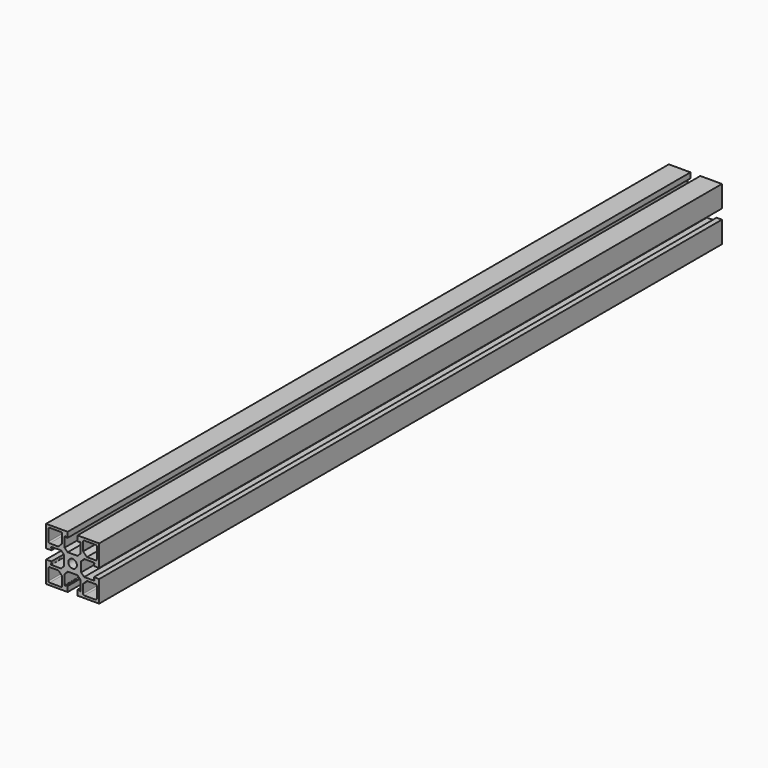
from build123d import *

# Parameters (mm, degrees)
F0_R     = 3.647768
F1_DEPTH = 660


with BuildPart() as f1:
    # F0 (on Front) → F1 (new body)
    with BuildSketch(Plane.XZ):
        with BuildLine():
            Line((-4.15, 22.5), (-22.5, 22.5))
            Line((-22.5, 22.5), (-22.5, 4.15))
            Line((-22.5, 4.15), (-18, 4.15))
            Line((-18, 4.15), (-18, 5.75))
            ThreePointArc((-18, 5.75), (-18.5, 6.25), (-18, 6.75))
            Line((-18, 6.75), (-9.8, 6.75))
            Line((-9.8, 6.75), (-7.2, 4.15))
            Line((-7.2, 4.15), (-7.2, -4.15))
            Line((-7.2, -4.15), (-9.8, -6.75))
            Line((-9.8, -6.75), (-18, -6.75))
            ThreePointArc((-18, -6.75), (-18.5, -6.25), (-18, -5.75))
            Line((-18, -5.75), (-18, -4.15))
            Line((-18, -4.15), (-22.5, -4.15))
            Line((-22.5, -4.15), (-22.5, -22.5))
            Line((-22.5, -22.5), (-4.15, -22.5))
            Line((-4.15, -22.5), (-4.15, -18))
            Line((-4.15, -18), (-5.75, -18))
            ThreePointArc((-5.75, -18), (-6.25, -18.5), (-6.75, -18))
            Line((-6.75, -18), (-6.75, -9.8))
            Line((-6.75, -9.8), (-4.15, -7.2))
            Line((-4.15, -7.2), (4.15, -7.2))
            Line((4.15, -7.2), (6.75, -9.8))
            Line((6.75, -9.8), (6.75, -18))
            ThreePointArc((6.75, -18), (6.25, -18.5), (5.75, -18))
            Line((5.75, -18), (4.15, -18))
            Line((4.15, -18), (4.15, -22.5))
            Line((4.15, -22.5), (22.5, -22.5))
            Line((22.5, -22.5), (22.5, -4.15))
            Line((22.5, -4.15), (18, -4.15))
            Line((18, -4.15), (18, -5.75))
            ThreePointArc((18, -5.75), (18.5, -6.25), (18, -6.75))
            Line((18, -6.75), (9.8, -6.75))
            Line((9.8, -6.75), (7.2, -4.15))
            Line((7.2, -4.15), (7.2, 4.15))
            Line((7.2, 4.15), (9.8, 6.75))
            Line((9.8, 6.75), (18, 6.75))
            ThreePointArc((18, 6.75), (18.5, 6.25), (18, 5.75))
            Line((18, 5.75), (18, 4.15))
            Line((18, 4.15), (22.5, 4.15))
            Line((22.5, 4.15), (22.5, 22.5))
            Line((22.5, 22.5), (4.15, 22.5))
            Line((4.15, 22.5), (4.15, 18))
            Line((4.15, 18), (5.75, 18))
            ThreePointArc((5.75, 18), (6.25, 18.5), (6.75, 18))
            Line((6.75, 18), (6.75, 9.8))
            Line((6.75, 9.8), (4.15, 7.2))
            Line((4.15, 7.2), (-4.15, 7.2))
            Line((-4.15, 7.2), (-6.75, 9.8))
            Line((-6.75, 9.8), (-6.75, 18))
            ThreePointArc((-6.75, 18), (-6.25, 18.5), (-5.75, 18))
            Line((-5.75, 18), (-4.15, 18))
            Line((-4.15, 18), (-4.15, 22.5))
        make_face()
        with BuildLine():
            Line((-8.9, -12.1), (-8.9, -19.5))
            ThreePointArc((-8.9, -19.5), (-9.192893, -20.207107), (-9.9, -20.5))
            Line((-9.9, -20.5), (-19.5, -20.5))
            ThreePointArc((-19.5, -20.5), (-20.207107, -20.207107), (-20.5, -19.5))
            Line((-20.5, -19.5), (-20.5, -9.9))
            ThreePointArc((-20.5, -9.9), (-20.207107, -9.192893), (-19.5, -8.9))
            Line((-19.5, -8.9), (-12.1, -8.9))
            Line((-12.1, -8.9), (-8.9, -12.1))
        make_face(mode=Mode.SUBTRACT)
        with BuildLine():
            Line((8.9, -12.1), (12.1, -8.9))
            Line((12.1, -8.9), (19.5, -8.9))
            ThreePointArc((19.5, -8.9), (20.207107, -9.192893), (20.5, -9.9))
            Line((20.5, -9.9), (20.5, -19.5))
            ThreePointArc((20.5, -19.5), (20.207107, -20.207107), (19.5, -20.5))
            Line((19.5, -20.5), (9.9, -20.5))
            ThreePointArc((9.9, -20.5), (9.192893, -20.207107), (8.9, -19.5))
            Line((8.9, -19.5), (8.9, -12.1))
        make_face(mode=Mode.SUBTRACT)
        with BuildLine():
            ThreePointArc((-20.5, 19.5), (-20.207107, 20.207107), (-19.5, 20.5))
            Line((-19.5, 20.5), (-9.9, 20.5))
            ThreePointArc((-9.9, 20.5), (-9.192893, 20.207107), (-8.9, 19.5))
            Line((-8.9, 19.5), (-8.9, 12.1))
            Line((-8.9, 12.1), (-12.1, 8.9))
            Line((-12.1, 8.9), (-19.5, 8.9))
            ThreePointArc((-19.5, 8.9), (-20.207107, 9.192893), (-20.5, 9.9))
            Line((-20.5, 9.9), (-20.5, 19.5))
        make_face(mode=Mode.SUBTRACT)
        Circle(F0_R, mode=Mode.SUBTRACT)
        with BuildLine():
            Line((12.1, 8.9), (8.9, 12.1))
            Line((8.9, 12.1), (8.9, 19.5))
            ThreePointArc((8.9, 19.5), (9.192893, 20.207107), (9.9, 20.5))
            Line((9.9, 20.5), (19.5, 20.5))
            ThreePointArc((19.5, 20.5), (20.207107, 20.207107), (20.5, 19.5))
            Line((20.5, 19.5), (20.5, 9.9))
            ThreePointArc((20.5, 9.9), (20.207107, 9.192893), (19.5, 8.9))
            Line((19.5, 8.9), (12.1, 8.9))
        make_face(mode=Mode.SUBTRACT)
    extrude(amount=F1_DEPTH)


solid = f1.part
